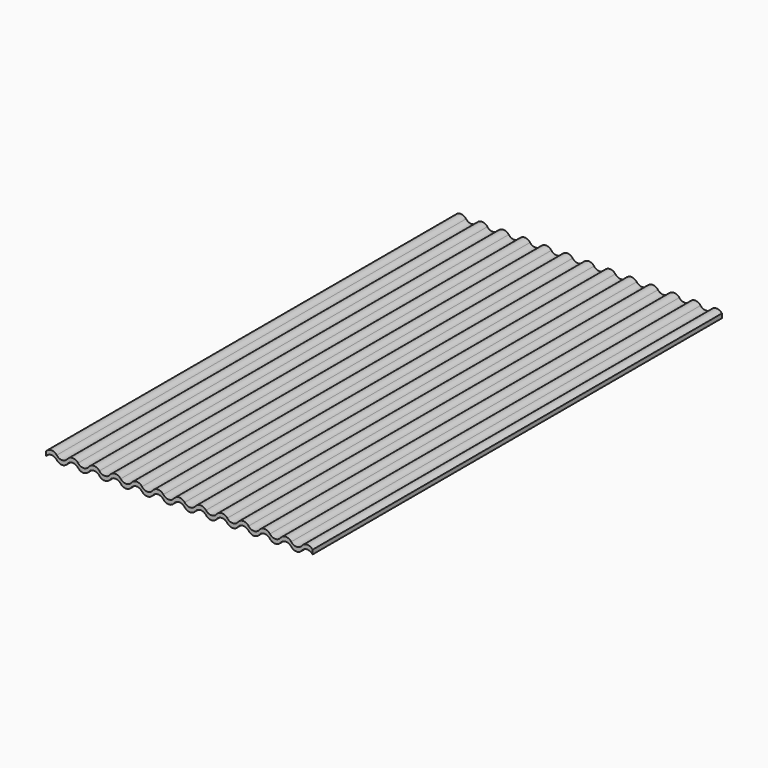
from build123d import *

# Parameters (mm, degrees)
F1_DEPTH = 96


with BuildPart() as f1:
    # F0 (on Front) → F1 (new body)
    with BuildSketch(Plane.XZ):
        with BuildLine():
            ThreePointArc((-21, -0.4), (-20, 0.1), (-19, -0.4))
            ThreePointArc((-19, -0.4), (-18, -0.9), (-17, -0.4))
            ThreePointArc((-17, -0.4), (-16, 0.1), (-15, -0.4))
            ThreePointArc((-15, -0.4), (-14, -0.9), (-13, -0.4))
            ThreePointArc((-13, -0.4), (-12, 0.1), (-11, -0.4))
            ThreePointArc((-11, -0.4), (-10, -0.9), (-9, -0.4))
            ThreePointArc((-9, -0.4), (-8, 0.1), (-7, -0.4))
            ThreePointArc((-7, -0.4), (-6, -0.9), (-5, -0.4))
            ThreePointArc((-5, -0.4), (-4, 0.1), (-3, -0.4))
            ThreePointArc((-3, -0.4), (-2, -0.9), (-1, -0.4))
            ThreePointArc((-1, -0.4), (0, 0.1), (1, -0.4))
            ThreePointArc((1, -0.4), (2, -0.9), (3, -0.4))
            ThreePointArc((3, -0.4), (4, 0.1), (5, -0.4))
            ThreePointArc((5, -0.4), (6, -0.9), (7, -0.4))
            ThreePointArc((7, -0.4), (8, 0.1), (9, -0.4))
            ThreePointArc((9, -0.4), (10, -0.9), (11, -0.4))
            ThreePointArc((11, -0.4), (12, 0.1), (13, -0.4))
            ThreePointArc((13, -0.4), (14, -0.9), (15, -0.4))
            ThreePointArc((15, -0.4), (16, 0.1), (17, -0.4))
            ThreePointArc((17, -0.4), (18, -0.9), (19, -0.4))
            ThreePointArc((19, -0.4), (20, 0.1), (21, -0.4))
            ThreePointArc((21, -0.4), (22, -0.9), (23, -0.4))
            ThreePointArc((23, -0.4), (24, 0.1), (25, -0.4))
            Line((25, -0.4), (25, 0.4))
            ThreePointArc((25, 0.4), (24, 0.9), (23, 0.4))
            ThreePointArc((23, 0.4), (22, -0.1), (21, 0.4))
            ThreePointArc((21, 0.4), (20, 0.9), (19, 0.4))
            ThreePointArc((19, 0.4), (18, -0.1), (17, 0.4))
            ThreePointArc((17, 0.4), (16, 0.9), (15, 0.4))
            ThreePointArc((15, 0.4), (14, -0.1), (13, 0.4))
            ThreePointArc((13, 0.4), (12, 0.9), (11, 0.4))
            ThreePointArc((11, 0.4), (10, -0.1), (9, 0.4))
            ThreePointArc((9, 0.4), (8, 0.9), (7, 0.4))
            ThreePointArc((7, 0.4), (6, -0.1), (5, 0.4))
            ThreePointArc((5, 0.4), (4, 0.9), (3, 0.4))
            ThreePointArc((3, 0.4), (2, -0.1), (1, 0.4))
            ThreePointArc((1, 0.4), (0, 0.9), (-1, 0.4))
            ThreePointArc((-1, 0.4), (-2, -0.1), (-3, 0.4))
            ThreePointArc((-3, 0.4), (-4, 0.9), (-5, 0.4))
            ThreePointArc((-5, 0.4), (-6, -0.1), (-7, 0.4))
            ThreePointArc((-7, 0.4), (-8, 0.9), (-9, 0.4))
            ThreePointArc((-9, 0.4), (-10, -0.1), (-11, 0.4))
            ThreePointArc((-11, 0.4), (-12, 0.9), (-13, 0.4))
            ThreePointArc((-13, 0.4), (-14, -0.1), (-15, 0.4))
            ThreePointArc((-15, 0.4), (-16, 0.9), (-17, 0.4))
            ThreePointArc((-17, 0.4), (-18, -0.1), (-19, 0.4))
            ThreePointArc((-19, 0.4), (-20, 0.9), (-21, 0.4))
            ThreePointArc((-21, 0.4), (-22, -0.1), (-23, 0.4))
            ThreePointArc((-23, 0.4), (-24, 0.9), (-25, 0.4))
            Line((-25, 0.4), (-25, -0.4))
            ThreePointArc((-25, -0.4), (-24, 0.1), (-23, -0.4))
            ThreePointArc((-23, -0.4), (-22, -0.9), (-21, -0.4))
        make_face()
    extrude(amount=F1_DEPTH)


solid = f1.part
